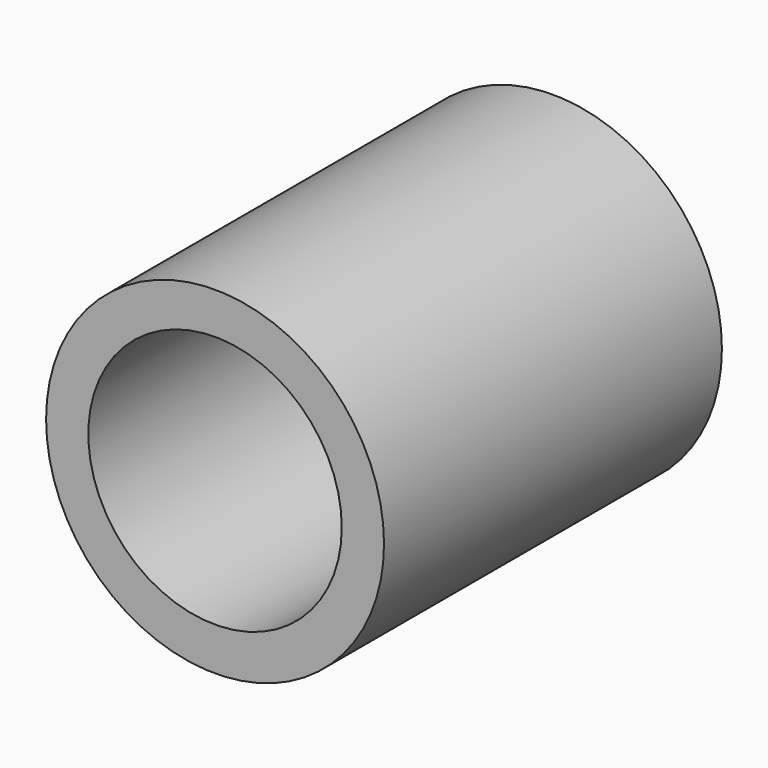
from build123d import *

# Parameters (mm, degrees)
F0_R     = 50.8
F0_R_2   = 38.1
F1_DEPTH = 63.5


with BuildPart() as f1:
    # F0 (on Front) → F1 (new body, symmetric)
    with BuildSketch(Plane.XZ):
        Circle(F0_R)
        with Locations((0, 0.220353)):
            Circle(F0_R_2, mode=Mode.SUBTRACT)
    extrude(amount=F1_DEPTH, both=True)


solid = f1.part
